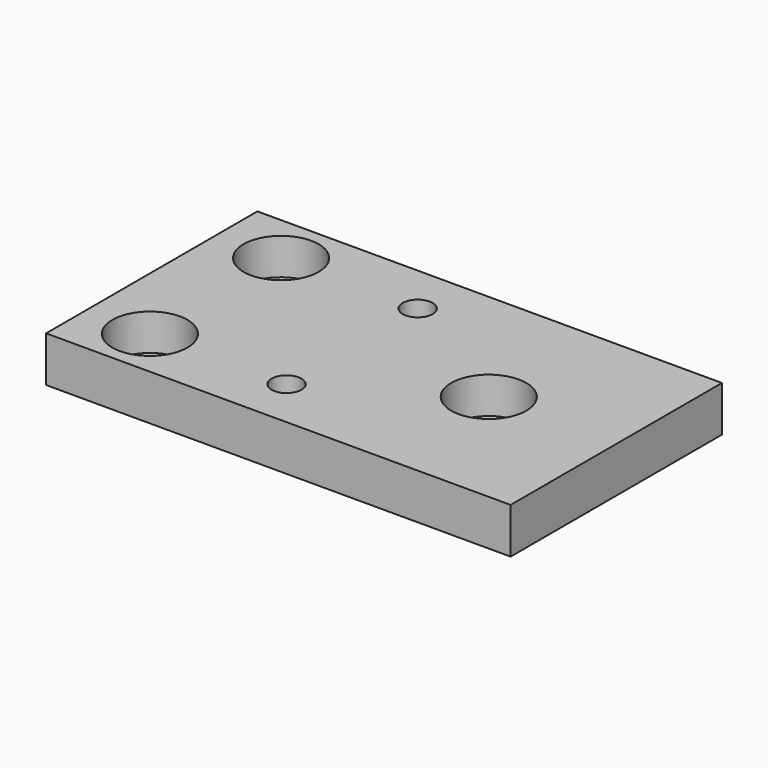
from build123d import *

# Parameters (mm, degrees)
F0_W           = 51
F0_H           = 29
F1_DEPTH       = 5
F3_D           = 4.4
F3_DEPTH       = 6
F3_CBORE_D     = 8.25
F3_CBORE_DEPTH = 4
F3_TIP         = 1.3218933619
F5_D           = 3.3


with BuildPart() as f1:
    # F0 (on Top) → F1 (new body)
    with BuildSketch(Plane.XY):
        Rectangle(F0_W, F0_H)
    extrude(amount=F1_DEPTH)

    # F3
    with Locations(Plane.XY.offset(5)):
        with Locations((-18.5, 9), (-18.5, -9), (11.5, 0)):
            CounterBoreHole(F3_D / 2, F3_CBORE_D / 2, F3_CBORE_DEPTH, depth=F3_DEPTH)
            with Locations((0, 0, -(F3_DEPTH + F3_TIP / 2))):  # 118° drill point
                Cone(0, F3_D / 2, F3_TIP, mode=Mode.SUBTRACT)

    # F5 (through all)
    with Locations(Plane.XY.offset(5)):
        with Locations((-3.5, 9), (-3.5, -9)):
            Hole(F5_D / 2)


solid = f1.part
